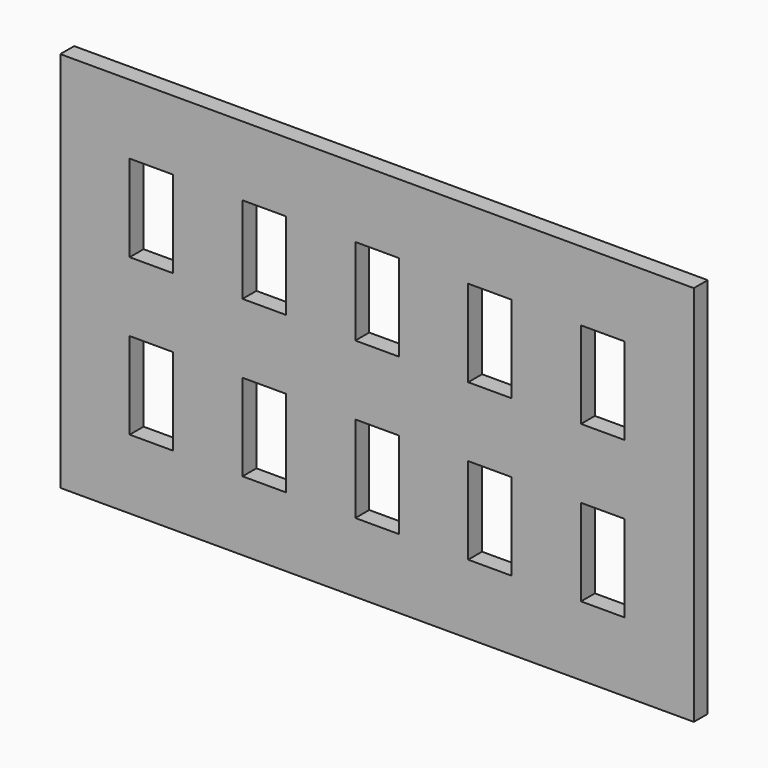
from build123d import *

# Parameters (mm, degrees)
F0_W     = 115.8875
F0_H     = 69.85
F0_W_2   = 7.9375
F0_H_2   = 15.875
F1_DEPTH = 3.175


with BuildPart() as f1:
    # F0 (on Front) → F1 (new body)
    with BuildSketch(Plane.XZ):
        Rectangle(F0_W, F0_H)
        with Locations((-41.275, -14.2875)):
            Rectangle(F0_W_2, F0_H_2, mode=Mode.SUBTRACT)
        with Locations((-20.6375, -14.2875)):
            Rectangle(F0_W_2, F0_H_2, mode=Mode.SUBTRACT)
        with Locations((0, -14.2875)):
            Rectangle(F0_W_2, F0_H_2, mode=Mode.SUBTRACT)
        with Locations((20.6375, -14.2875)):
            Rectangle(F0_W_2, F0_H_2, mode=Mode.SUBTRACT)
        with Locations((41.275, -14.2875)):
            Rectangle(F0_W_2, F0_H_2, mode=Mode.SUBTRACT)
        with Locations((-41.275, 14.2875)):
            Rectangle(F0_W_2, F0_H_2, mode=Mode.SUBTRACT)
        with Locations((-20.6375, 14.2875)):
            Rectangle(F0_W_2, F0_H_2, mode=Mode.SUBTRACT)
        with Locations((0, 14.2875)):
            Rectangle(F0_W_2, F0_H_2, mode=Mode.SUBTRACT)
        with Locations((20.6375, 14.2875)):
            Rectangle(F0_W_2, F0_H_2, mode=Mode.SUBTRACT)
        with Locations((41.275, 14.2875)):
            Rectangle(F0_W_2, F0_H_2, mode=Mode.SUBTRACT)
    extrude(amount=F1_DEPTH)


solid = f1.part
